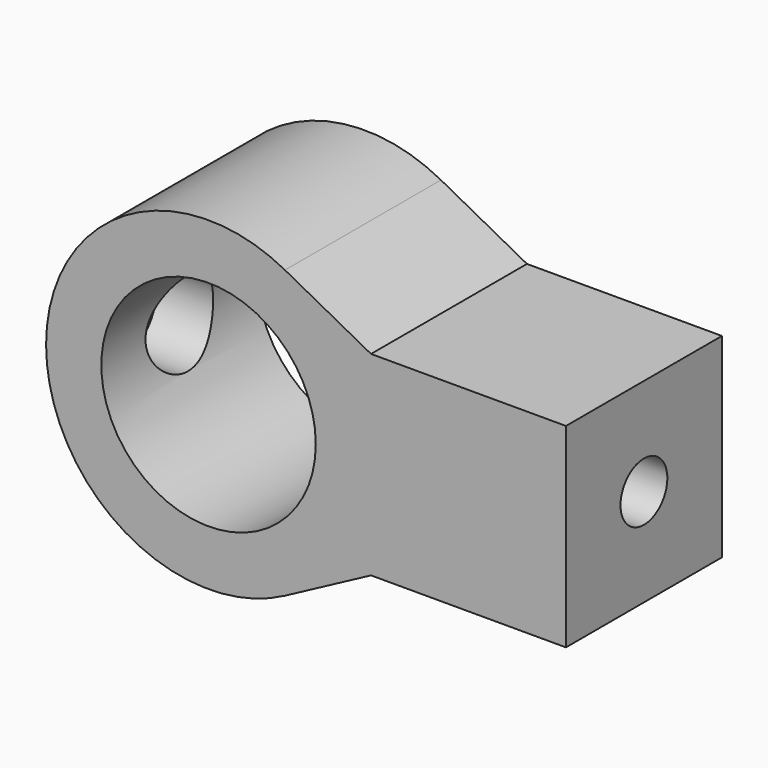
from build123d import *

# Parameters (mm, degrees)
F0_R           = 16.5
F1_DEPTH       = 30
F5_D           = 9
F5_START       = 1.5000001
F5_CBORE_D     = 13
F5_CBORE_DEPTH = 9
F8_D           = 13
F8_DEPTH       = 20
F8_START       = 0.8597847
F8_TIP         = 3.9055940237


with BuildPart() as f1:
    # F0 (on Front) → F1 (new body)
    with BuildSketch(Plane.XZ):
        with BuildLine():
            ThreePointArc((-28.2352941176, -22.0588235294), (-18.5626768572, -12.8623938857), (-15, 0))
            ThreePointArc((-15, 0), (-18.5626768572, 12.8623938857), (-28.2352941176, 22.0588235294))
            ThreePointArc((-28.2352941176, 22.0588235294), (-65, 0), (-28.2352941176, -22.0588235294))
        make_face()
        with Locations((-40, 0)):
            Circle(F0_R, mode=Mode.SUBTRACT)
        with BuildLine():
            ThreePointArc((-28.2352941176, 22.0588235294), (-18.5626768572, 12.8623938857), (-15, 0))
            Line((-15, 0), (-15, 15))
            Line((-15, 15), (-28.2352941176, 22.0588235294))
        make_face()
        with BuildLine():
            Line((-28.2352941176, -22.0588235294), (-15, -15))
            Line((-15, -15), (-15, 0))
            ThreePointArc((-15, 0), (-18.5626768572, -12.8623938857), (-28.2352941176, -22.0588235294))
        make_face()
        Polygon((-15, -15), (15, -15), (15, 15), (-15, 15), (-15, 0), align=None)
    extrude(amount=F1_DEPTH)

    # F5 (through all)
    # its depths count from where the whole tool has entered the part; down to there all is cleared
    with Locations(Plane(origin=(-25, 0, 0), x_dir=(0, 1, 0), z_dir=(-1, 0, 0)).offset(-F5_START)):
        with Locations((-15, 0)):
            CounterBoreHole(F5_D / 2, F5_CBORE_D / 2, F5_CBORE_DEPTH)

    # F8
    # its depths count from where the whole tool has entered the part; down to there all is cleared
    with Locations(Plane(origin=(-65, 0, 0), x_dir=(0, 1, 0), z_dir=(-1, 0, 0)).offset(-F8_START)):
        with Locations((-15, 0)):
            Hole(F8_D / 2, depth=F8_DEPTH)
            with Locations((0, 0, -(F8_DEPTH + F8_TIP / 2))):  # 118° drill point
                Cone(0, F8_D / 2, F8_TIP, mode=Mode.SUBTRACT)


solid = f1.part
